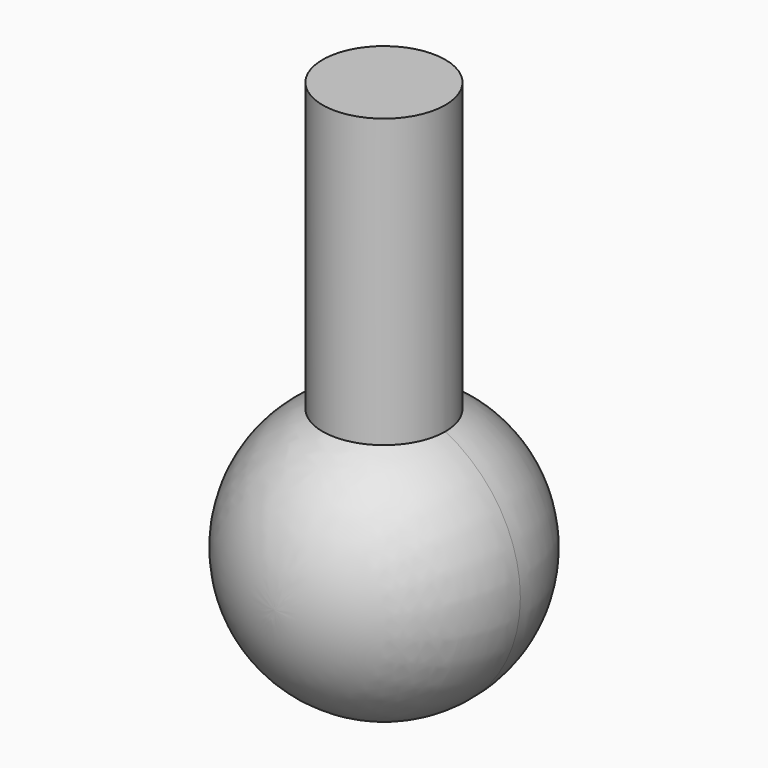
from build123d import *

# Parameters (mm, degrees)
F2_R     = 22.5
F3_DEPTH = 150


with BuildPart() as f1:
    # F0 (on Top) → F1 (revolve)
    with BuildSketch(Plane.XY):
        with BuildLine():
            Line((0, 0), (50, 0))
            ThreePointArc((50, 0), (35.355339, 35.355339), (0, 50))
            Line((0, 50), (0, 0))
        make_face()
        with BuildLine():
            Line((0, 0), (0, -50))
            ThreePointArc((0, -50), (35.355339, -35.355339), (50, 0))
            Line((50, 0), (0, 0))
        make_face()
    revolve(axis=Axis((0, 0, 0), (0, -1, 0)))

    # F2 (on Top) → F3 (join)
    with BuildSketch(Plane.XY):
        Circle(F2_R)
    extrude(amount=F3_DEPTH)


solid = f1.part
